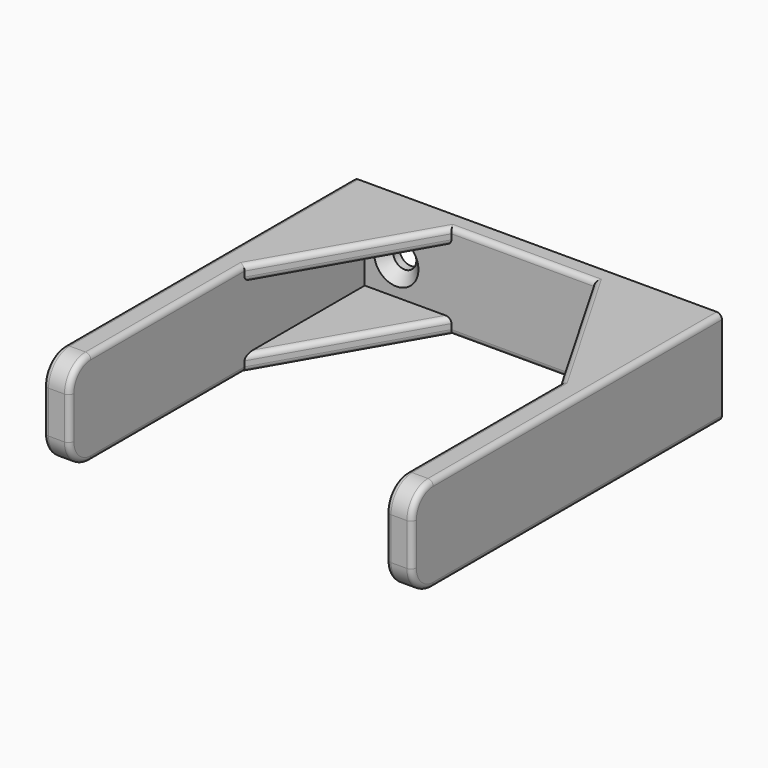
from build123d import *

# Parameters (mm, degrees)
F0_W            = 70
F0_H            = 18
F1_DEPTH        = 3.5
F2_W            = 5
F2_H            = 18
F3_DEPTH        = 70
F5_DEPTH        = 3
F8_R            = 5
F9_R            = 1
F11_D           = 4.4
F11_CSINK_D     = 8.4
F11_CSINK_ANGLE = 90


with BuildPart() as f1:
    # F0 (on Front) → F1 (new body)
    with BuildSketch(Plane.XZ):
        Rectangle(F0_W, F0_H)
    extrude(amount=F1_DEPTH)

    # F2 (on face) → F3 (join)
    with BuildSketch(Plane.XZ.offset(3.5)):
        with Locations((32.5, 0)):
            Rectangle(F2_W, F2_H)
    extrude(amount=F3_DEPTH)

    # F4 (on face) → F5 (join)
    with BuildSketch(Plane(origin=(0, 0, -9), x_dir=(1, 0, 0), z_dir=(0, 0, -1))):
        Polygon((13.5421621762, 3.5), (30, 3.5), (30, 32.0058112935), align=None)
    extrude(amount=-F5_DEPTH)

    # F6: F1 across plane


with BuildPart() as f1_1:
    add(f1.part)
    add(f1.part.mirror(Plane.XY))

    # F7: F1 across plane


with BuildPart() as f1_2:
    add(f1_1.part)
    add(f1_1.part.mirror(Plane.YZ))

    # F8
    f8_edges = [f1_2.edges().sort_by_distance(p)[0] for p in [
        (-32.5, -73.5, -9),
        (-32.5, -73.5, 9),
        (32.5, -73.5, -9),
        (32.5, -73.5, 9),
    ]]
    fillet(f8_edges, radius=F8_R)

    # F9
    f9_edges = [f1_2.edges().sort_by_distance(p)[0] for p in [
        (-35, -34.25, -9),
        (35, -34.25, -9),
        (-30, -50.252906, -9),
        (30, -50.252906, -9),
        (-21.771081, -17.752906, -9),
        (0, -3.5, -9),
        (21.771081, -17.752906, 9),
        (-21.771081, -17.752906, 9),
        (0, -3.5, 9),
        (21.771081, -17.752906, 6),
        (21.771081, -17.752906, -6),
        (-21.771081, -17.752906, 6),
        (-21.771081, -17.752906, -6),
        (21.771081, -17.752906, -9),
    ]]
    fillet(f9_edges, radius=F9_R)

    # F11 (through all)
    with Locations(Plane.XZ.offset(3.5)):
        with Locations((-24, 0), (24, 0)):
            CounterSinkHole(F11_D / 2, F11_CSINK_D / 2, counter_sink_angle=F11_CSINK_ANGLE)


solid = f1_2.part
